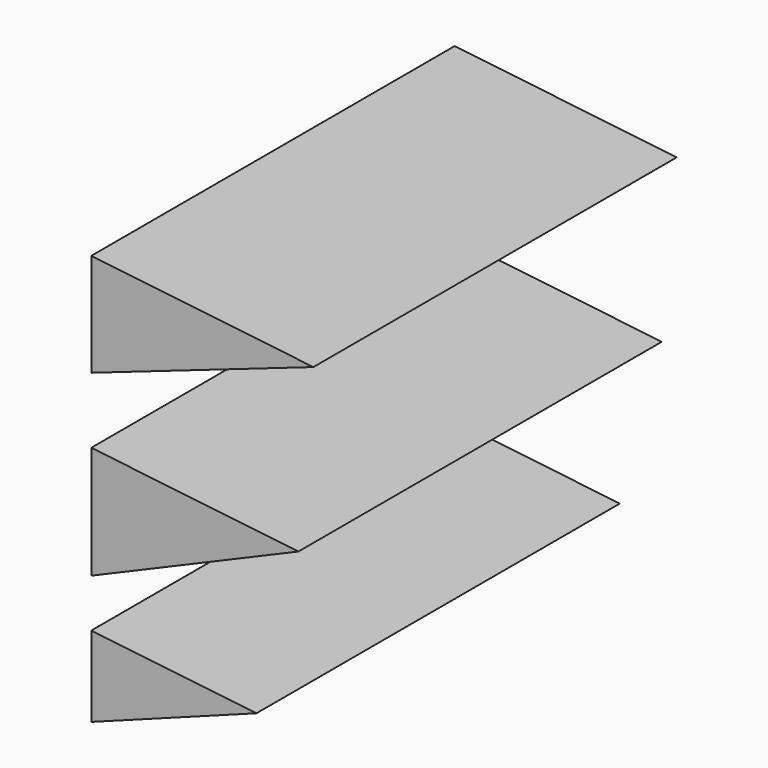
from build123d import *

# Parameters (mm, degrees)
F1_DEPTH = 85


with BuildPart() as f1:
    # F0 (on Front) → F1 (new body)
    with BuildSketch(Plane.XZ):
        Polygon((-30.912245, 38.119581), (-30.912245, 18.844591), (10.649446, 33.300832), align=None)
        Polygon((-30.912245, 6.496552), (-30.912245, -14.585465), (7.849954, 2.002383), align=None)
        Polygon((-30.912245, -23.620617), (-30.912245, -38.679201), (0, -27.204646), align=None)
    extrude(amount=F1_DEPTH)


solid = f1.part
